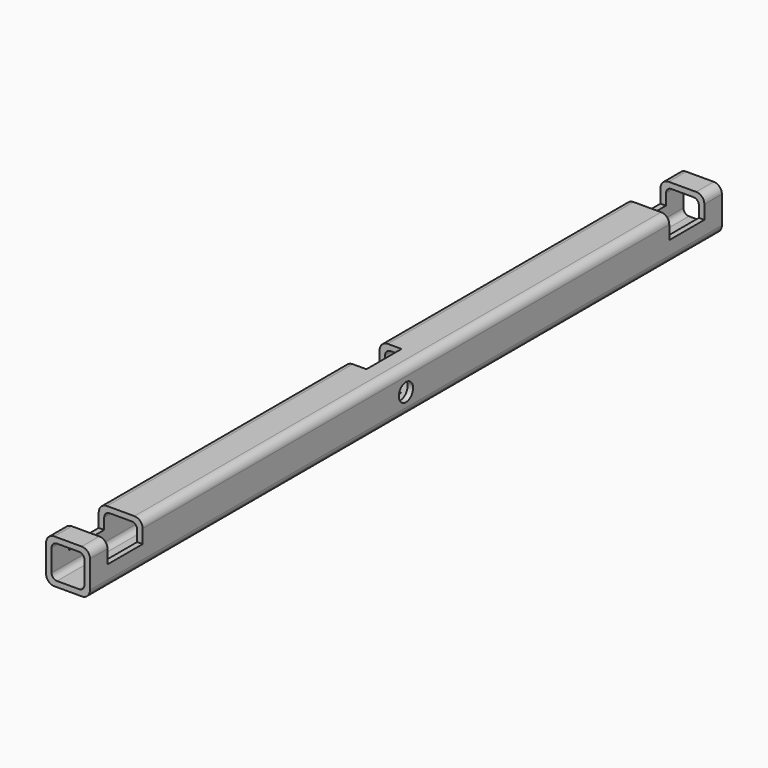
from build123d import *

# Parameters (mm, degrees)
F1_DEPTH      = 228.6
F2_W          = 12.7
F2_H          = 6.35
F3_DEPTH      = 11.938
F3_DEPTH_BACK = 25.4
F4_W          = 6.35
F4_H          = 12.7
F5_DEPTH      = 12.7
F6_R          = 2.579688
F7_DEPTH      = 12.7
F8_R          = 2.579688
F9_DEPTH      = 12.7


with BuildPart() as f1:
    # F0 (on Front) → F1 (new body)
    with BuildSketch(Plane.XZ):
        with BuildLine():
            ThreePointArc((10.071912, -2.38125), (9.37446, -0.697452), (7.690662, 0))
            Line((7.690662, 0), (-0.246838, 0))
            ThreePointArc((-0.246838, 0), (-1.930636, -0.697452), (-2.628088, -2.38125))
            Line((-2.628088, -2.38125), (-2.628088, -10.31875))
            ThreePointArc((-2.628088, -10.31875), (-1.930636, -12.002548), (-0.246838, -12.7))
            Line((-0.246838, -12.7), (7.690662, -12.7))
            ThreePointArc((7.690662, -12.7), (9.37446, -12.002548), (10.071912, -10.31875))
            Line((10.071912, -10.31875), (10.071912, -2.38125))
        make_face()
        with BuildLine():
            Line((0.546912, -1.5875), (6.896912, -1.5875))
            ThreePointArc((6.896912, -1.5875), (8.019444, -2.052468), (8.484412, -3.175))
            Line((8.484412, -3.175), (8.484412, -9.525))
            ThreePointArc((8.484412, -9.525), (8.019444, -10.647532), (6.896912, -11.1125))
            Line((6.896912, -11.1125), (0.546912, -11.1125))
            ThreePointArc((0.546912, -11.1125), (-0.57562, -10.647532), (-1.040588, -9.525))
            Line((-1.040588, -9.525), (-1.040588, -3.175))
            ThreePointArc((-1.040588, -3.175), (-0.57562, -2.052468), (0.546912, -1.5875))
        make_face(mode=Mode.SUBTRACT)
    extrude(amount=F1_DEPTH)

    # F2 (on Right) → F3 (cut, two sides)
    with BuildSketch(Plane.YZ) as f3_sk:
        with Locations((-215.9, -3.175)):
            Rectangle(F2_W, F2_H)
        with Locations((-12.7, -3.175)):
            Rectangle(F2_W, F2_H)
    extrude(amount=F3_DEPTH, mode=Mode.SUBTRACT)
    extrude(f3_sk.sketch, amount=-F3_DEPTH_BACK, mode=Mode.SUBTRACT)

    # F4 (on Top) → F5 (cut)
    with BuildSketch(Plane.XY):
        with Locations((0.546912, -114.3)):
            Rectangle(F4_W, F4_H)
    extrude(amount=-F5_DEPTH, mode=Mode.SUBTRACT)

    # F6 (on Top) → F7 (cut)
    with BuildSketch(Plane.XY):
        with Locations((3.721912, -12.7)):
            Circle(F6_R)
        with Locations((3.721912, -215.9)):
            Circle(F6_R)
    extrude(amount=-F7_DEPTH, mode=Mode.SUBTRACT)

    # F8 (on Right) → F9 (cut)
    with BuildSketch(Plane.YZ):
        with Locations((-114.3, -6.35)):
            Circle(F8_R)
    extrude(amount=F9_DEPTH, mode=Mode.SUBTRACT)


solid = f1.part
